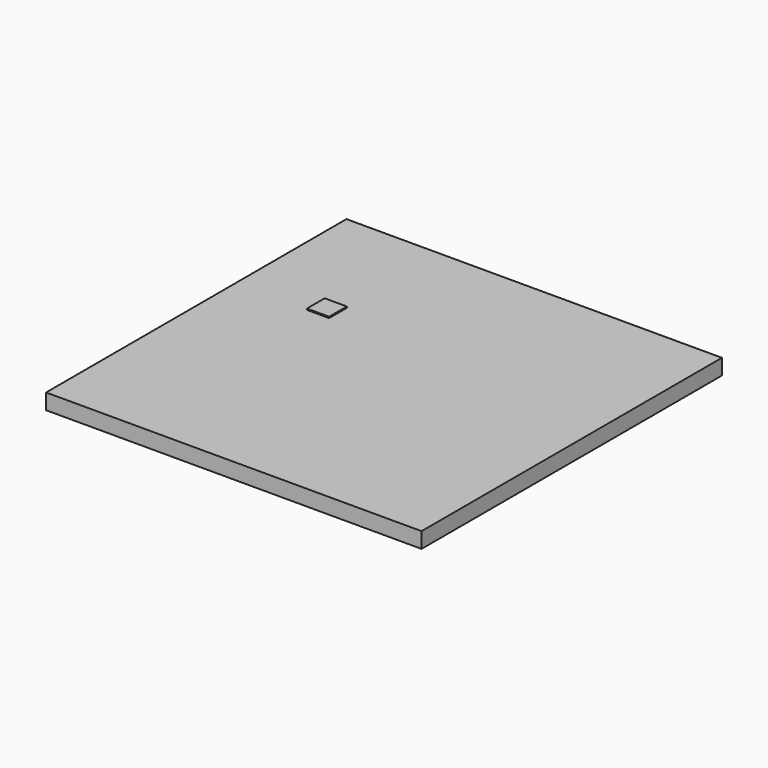
from build123d import *

# Parameters (mm, degrees)
F0_W     = 304.8
F0_H     = 304.8
F1_DEPTH = 12.7
F2_W     = 18
F2_H     = 1
F3_DEPTH = 18


with BuildPart() as f1:
    # F0 (on Top) → F1 (new body)
    with BuildSketch(Plane.XY):
        Rectangle(F0_W, F0_H)
    extrude(amount=F1_DEPTH)


with BuildPart() as f3:
    # F2 (on Front) → F3 (new body)
    with BuildSketch(Plane.XZ):
        with Locations((-39.170912, 51.437049)):
            Rectangle(F2_W, F2_H)
    extrude(amount=F3_DEPTH)


solid = Compound([f1.part, f3.part])
